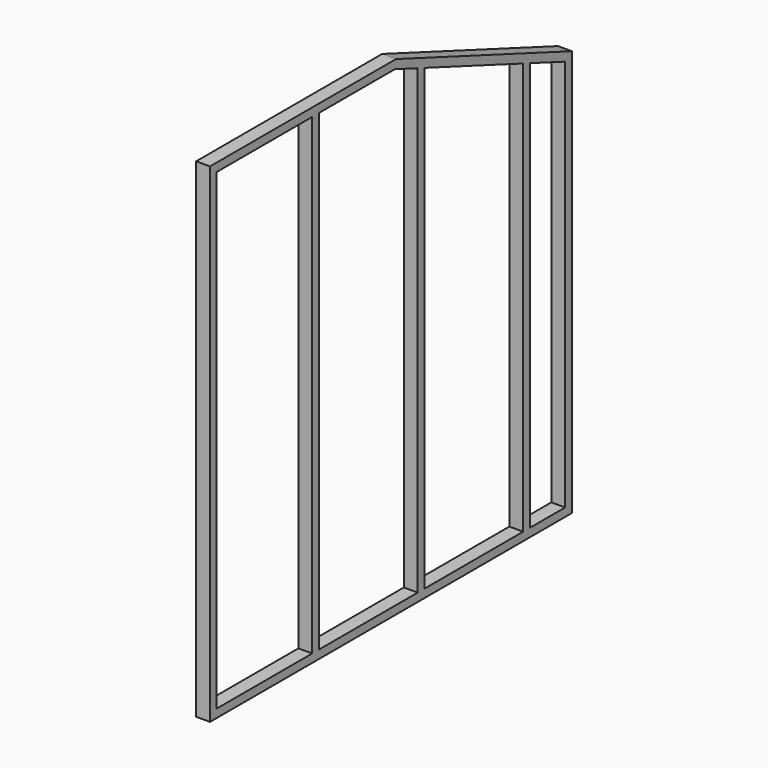
from build123d import *

# Parameters (mm, degrees)
F0_W      = 63
F0_H      = 2057.5
F1_DEPTH  = 38
F2_W      = 63
F2_H      = 38
F3_DEPTH  = 2149
F4_W      = 63
F4_H      = 38
F5_DEPTH  = 2149
F6_W      = 63
F6_H      = 38
F7_DEPTH  = 2149
F8_W      = 63
F8_H      = 38
F9_DEPTH  = 2149
F10_W     = 63
F10_H     = 38
F11_DEPTH = 2149
F12_W     = 63
F12_H     = 1819.5122480392
F13_DEPTH = 38
F15_DEPTH = 63
F17_DEPTH = 63


with BuildPart() as f1:
    # F0 (on Top) → F1 (new body)
    with BuildSketch(Plane.XY):
        with Locations((31.5, 1028.75)):
            Rectangle(F0_W, F0_H)
    extrude(amount=F1_DEPTH)

    # F2 (on face) → F3 (join)
    with BuildSketch(Plane.XY.offset(38)):
        with Locations((31.5, 19)):
            Rectangle(F2_W, F2_H)
    extrude(amount=F3_DEPTH)

    # F4 (on face) → F5 (join)
    with BuildSketch(Plane.XY.offset(38)):
        with Locations((31.5, 600)):
            Rectangle(F4_W, F4_H)
    extrude(amount=F5_DEPTH)

    # F6 (on face) → F7 (join)
    with BuildSketch(Plane.XY.offset(38)):
        with Locations((31.5, 1200)):
            Rectangle(F6_W, F6_H)
    extrude(amount=F7_DEPTH)

    # F8 (on face) → F9 (join)
    with BuildSketch(Plane.XY.offset(38)):
        with Locations((31.5, 1800)):
            Rectangle(F8_W, F8_H)
    extrude(amount=F9_DEPTH)

    # F10 (on face) → F11 (join)
    with BuildSketch(Plane.XY.offset(38)):
        with Locations((31.5, 2038.5)):
            Rectangle(F10_W, F10_H)
    extrude(amount=F11_DEPTH)

    # F12 (on face) → F13 (join)
    with BuildSketch(Plane.XY.offset(2187)):
        with Locations((31.5, 909.7561240196)):
            Rectangle(F12_W, F12_H)
    extrude(amount=F13_DEPTH)

    # F14 (on face) → F15 (join)
    with BuildSketch(Plane.YZ.offset(63)):
        Polygon((1158.8333333333, 2187), (1057.5, 2225), (1050.8286546098, 2187), align=None)
        Polygon((2057.5, 1850), (1158.8333333333, 2187), (1050.8286546098, 2187), (2057.5, 1809.4159822097), align=None)
    extrude(amount=-F15_DEPTH)

    # F16 (on face) → F17 (cut)
    with BuildSketch(Plane.YZ.offset(63)):
        Polygon((1781, 2187), (1781, 1953.6875), (1819, 1939.4375), (1819, 2187), (1819.5122480392, 2187), (1819.5122480392, 2225), (1057.5, 2225), (1158.8333333333, 2187), (1181, 2187), (1181, 2178.6875), (1219, 2164.4375), (1219, 2187), align=None)
        Polygon((2019.5, 2187), (2019.5, 1864.25), (2057.5, 1850), (2057.5, 2187), align=None)
    extrude(amount=-F17_DEPTH, mode=Mode.SUBTRACT)


solid = f1.part
